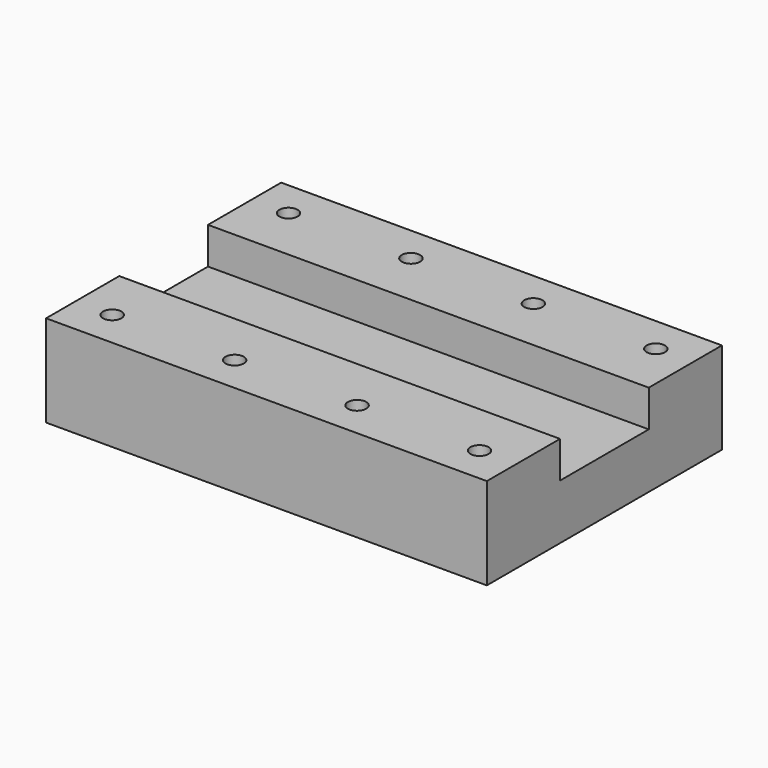
from build123d import *

# Parameters (mm, degrees)
F0_W     = 76.2
F0_H     = 50.8
F0_R     = 1.5875
F1_DEPTH = 15.875
F2_W     = 76.2
F2_H     = 19.177
F3_DEPTH = 6.35


with BuildPart() as f1:
    # F0 (on Top) → F1 (new body)
    with BuildSketch(Plane.XY):
        Rectangle(F0_W, F0_H)
        with Locations((-31.75, -19.05)):
            Circle(F0_R, mode=Mode.SUBTRACT)
        with Locations((-10.583333, -19.05)):
            Circle(F0_R, mode=Mode.SUBTRACT)
        with Locations((10.583333, -19.05)):
            Circle(F0_R, mode=Mode.SUBTRACT)
        with Locations((31.75, -19.05)):
            Circle(F0_R, mode=Mode.SUBTRACT)
        with Locations((-31.75, 19.05)):
            Circle(F0_R, mode=Mode.SUBTRACT)
        with Locations((-10.583333, 19.05)):
            Circle(F0_R, mode=Mode.SUBTRACT)
        with Locations((10.583333, 19.05)):
            Circle(F0_R, mode=Mode.SUBTRACT)
        with Locations((31.75, 19.05)):
            Circle(F0_R, mode=Mode.SUBTRACT)
    extrude(amount=F1_DEPTH)

    # F2 (on face) → F3 (cut)
    with BuildSketch(Plane.XY.offset(15.875)):
        Rectangle(F2_W, F2_H)
    extrude(amount=-F3_DEPTH, mode=Mode.SUBTRACT)


solid = f1.part
